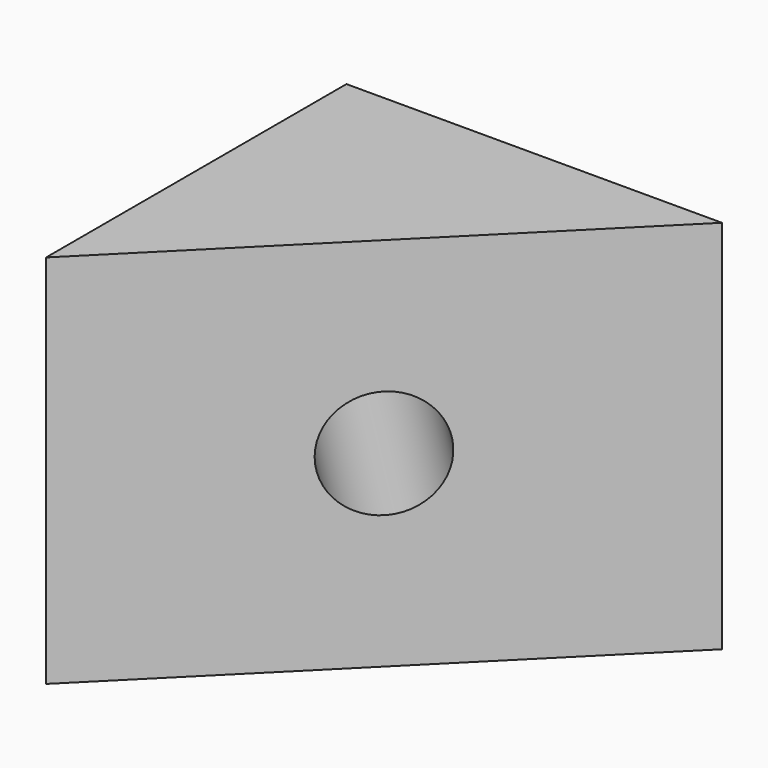
from build123d import *

# Parameters (mm, degrees)
F1_DEPTH = 17.223
F3_D     = 5


with BuildPart() as f1:
    # F0 (on Top) → F1 (new body)
    with BuildSketch(Plane.XY):
        Polygon((-46.914708, 39.525997), (-29.691266, 56.749439), (-46.914708, 56.749439), align=None)
    extrude(amount=F1_DEPTH)

    # F3 (through all)
    with Locations(Plane(origin=(-43.220352, 43.220352, 0), x_dir=(0.707107, 0.707107, 0), z_dir=(0.707107, -0.707107, 0))):
        with Locations((6.954205, 8.6115)):
            Hole(F3_D / 2)


solid = f1.part
